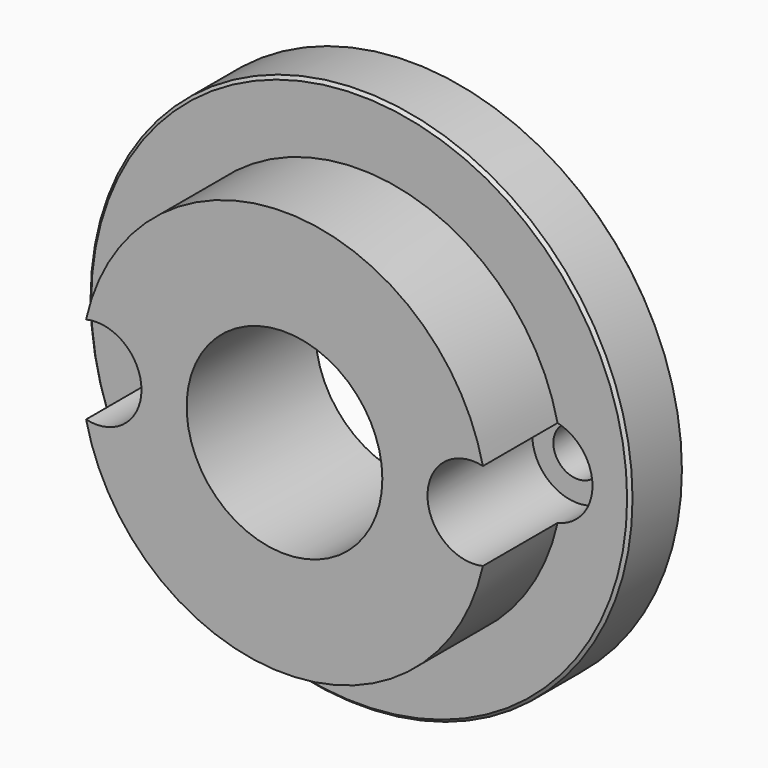
from build123d import *

# Parameters (mm, degrees)
F0_R          = 18
F0_R_2        = 1.6
F0_R_3        = 6.5
F1_DEPTH      = 4.5
F2_SIZE       = 0.2
F3_R          = 6.5
F4_DEPTH      = 6.2
F5_R          = 3
F6_DEPTH      = 2.5
F6_DEPTH_BACK = 6.201


with BuildPart() as f1:
    # F0 (on Front) → F1 (new body)
    with BuildSketch(Plane.XZ):
        Circle(F0_R)
        with Locations((-12.5, 0)):
            Circle(F0_R_2, mode=Mode.SUBTRACT)
        Circle(F0_R_3, mode=Mode.SUBTRACT)
        with Locations((12.5, 0)):
            Circle(F0_R_2, mode=Mode.SUBTRACT)
    extrude(amount=-F1_DEPTH)

    # F2
    f2_edges = [f1.edges().sort_by_distance(p)[0] for p in [
        (-18, 4.5, 0),
        (-18, 0, 0),
    ]]
    chamfer(f2_edges, length=F2_SIZE)

    # F3 (on face) → F4 (join)
    with BuildSketch(Plane.XZ):
        with BuildLine():
            ThreePointArc((-13.4376, 1.2964976822), (-10.9, 0), (-13.4376, -1.2964976822))
            ThreePointArc((-13.4376, -1.2964976822), (0, -13.5), (13.4376, -1.2964976822))
            ThreePointArc((13.4376, -1.2964976822), (10.9, 0), (13.4376, 1.2964976822))
            ThreePointArc((13.4376, 1.2964976822), (0, 13.5), (-13.4376, 1.2964976822))
        make_face()
        Circle(F3_R, mode=Mode.SUBTRACT)
    extrude(amount=F4_DEPTH)

    # F5 (on face) → F6 (cut, two sides)
    with BuildSketch(Plane.XZ) as f6_sk:
        with Locations((-12.5, 0)):
            Circle(F5_R)
        with Locations((12.5, 0)):
            Circle(F5_R)
    extrude(amount=-F6_DEPTH, mode=Mode.SUBTRACT)
    extrude(f6_sk.sketch, amount=F6_DEPTH_BACK, mode=Mode.SUBTRACT)


solid = f1.part
